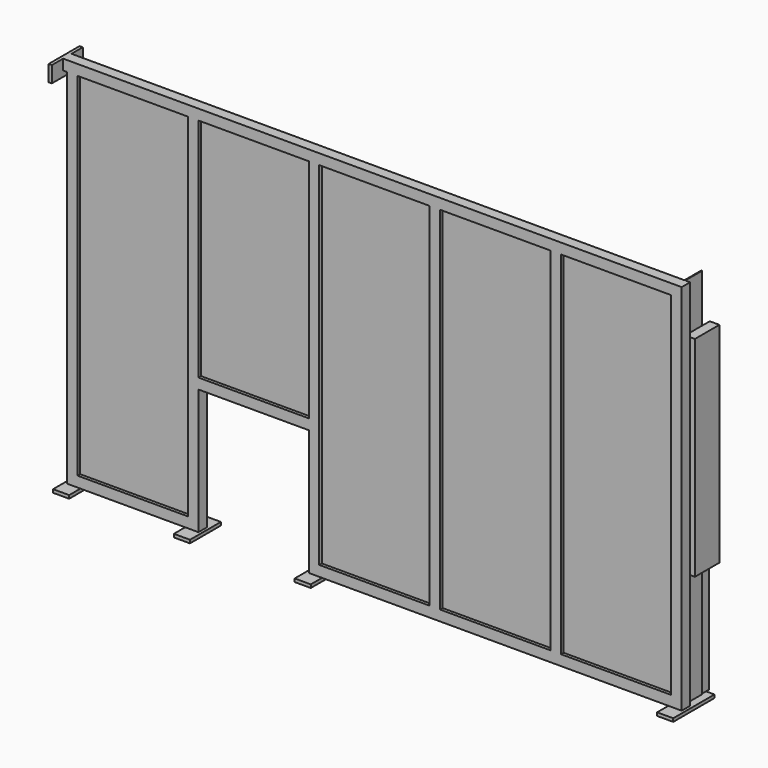
from build123d import *

# Parameters (mm, degrees)
F0_W      = 3815
F0_H      = 2315
F1_DEPTH  = 65
F2_W      = 685
F2_H      = 2185
F2_H_2    = 1405
F3_DEPTH  = 20
F4_W      = 100
F4_H      = 240
F4_H_2    = 320
F5_DEPTH  = 20
F6_W      = 65
F6_H      = 65
F7_DEPTH  = 25
F8_W      = 240
F8_H      = 100
F9_DEPTH  = 20
F10_W     = 5
F10_H     = 2315
F11_DEPTH = 130
F12_W     = 130
F12_H     = 1300
F12_W_2   = 60
F13_DEPTH = 60
F14_W     = 190
F14_H     = 715
F15_DEPTH = 60
F16_W     = 685
F16_H     = 780
F17_DEPTH = 255.001
F18_W     = 685
F18_H     = 2185
F18_H_2   = 1405
F19_DEPTH = 20


with BuildPart() as f1:
    # F0 (on Front) → F1 (new body)
    with BuildSketch(Plane.XZ):
        with Locations((1907.5, 1157.5)):
            Rectangle(F0_W, F0_H)
    extrude(amount=-F1_DEPTH)

    # F2 (on face) → F3 (cut)
    with BuildSketch(Plane.XZ):
        with Locations((407.5, 1157.5)):
            Rectangle(F2_W, F2_H)
        with Locations((1157.5, 1547.5)):
            Rectangle(F2_W, F2_H_2)
        with Locations((1907.5, 1157.5)):
            Rectangle(F2_W, F2_H)
        with Locations((3407.5, 1157.5)):
            Rectangle(F2_W, F2_H)
        with Locations((2657.5, 1157.5)):
            Rectangle(F2_W, F2_H)
    extrude(amount=-F3_DEPTH, mode=Mode.SUBTRACT)

    # F4 (on face) → F5 (join)
    with BuildSketch(Plane(origin=(0, 0, 0), x_dir=(1, 0, 0), z_dir=(0, 0, -1))):
        with Locations((32.5, -32.5)):
            Rectangle(F4_W, F4_H)
        with Locations((782.5, -32.5)):
            Rectangle(F4_W, F4_H)
        with Locations((1532.5, -32.5)):
            Rectangle(F4_W, F4_H)
        with Locations((3782.5, -72.5)):
            Rectangle(F4_W, F4_H_2)
    extrude(amount=F5_DEPTH)

    # F6 (on face) → F7 (join)
    with BuildSketch(Plane(origin=(0, 0, 0), x_dir=(0, -1, 0), z_dir=(-1, 0, 0))):
        with Locations((-32.5, 2282.5)):
            Rectangle(F6_W, F6_H)
    extrude(amount=F7_DEPTH)

    # F8 (on face) → F9 (join)
    with BuildSketch(Plane(origin=(-25, 0, 0), x_dir=(0, -1, 0), z_dir=(-1, 0, 0))):
        with Locations((-32.5, 2265)):
            Rectangle(F8_W, F8_H)
    extrude(amount=F9_DEPTH)

    # F10 (on face) → F11 (join)
    with BuildSketch(Plane(origin=(0, 65, 0), x_dir=(-1, 0, 0), z_dir=(0, 1, 0))):
        with Locations((-3782.5, 1157.5)):
            Rectangle(F10_W, F10_H)
    extrude(amount=F11_DEPTH)

    # F12 (on face) → F13 (join)
    with BuildSketch(Plane.YZ.offset(3785)):
        with Locations((130, 1365)):
            Rectangle(F12_W, F12_H)
        with Locations((225, 1365)):
            Rectangle(F12_W_2, F12_H)
    extrude(amount=F13_DEPTH)

    # F14 (on face) → F15 (join)
    with BuildSketch(Plane(origin=(3780, 0, 0), x_dir=(0, -1, 0), z_dir=(-1, 0, 0))):
        with Locations((-160, 357.5)):
            Rectangle(F14_W, F14_H)
    extrude(amount=F15_DEPTH)

    # F16 (on face) → F17 (cut, through all)
    with BuildSketch(Plane.XZ):
        with Locations((1157.5, 390)):
            Rectangle(F16_W, F16_H)
    extrude(amount=-F17_DEPTH, mode=Mode.SUBTRACT)

    # F18 (on face) → F19 (cut)
    with BuildSketch(Plane(origin=(0, 65, 0), x_dir=(-1, 0, 0), z_dir=(0, 1, 0))):
        with Locations((-3407.5, 1157.5)):
            Rectangle(F18_W, F18_H)
        with Locations((-2657.5, 1157.5)):
            Rectangle(F18_W, F18_H)
        with Locations((-1907.5, 1157.5)):
            Rectangle(F18_W, F18_H)
        with Locations((-407.5, 1157.5)):
            Rectangle(F18_W, F18_H)
        with Locations((-1157.5, 1547.5)):
            Rectangle(F18_W, F18_H_2)
    extrude(amount=-F19_DEPTH, mode=Mode.SUBTRACT)


solid = f1.part
